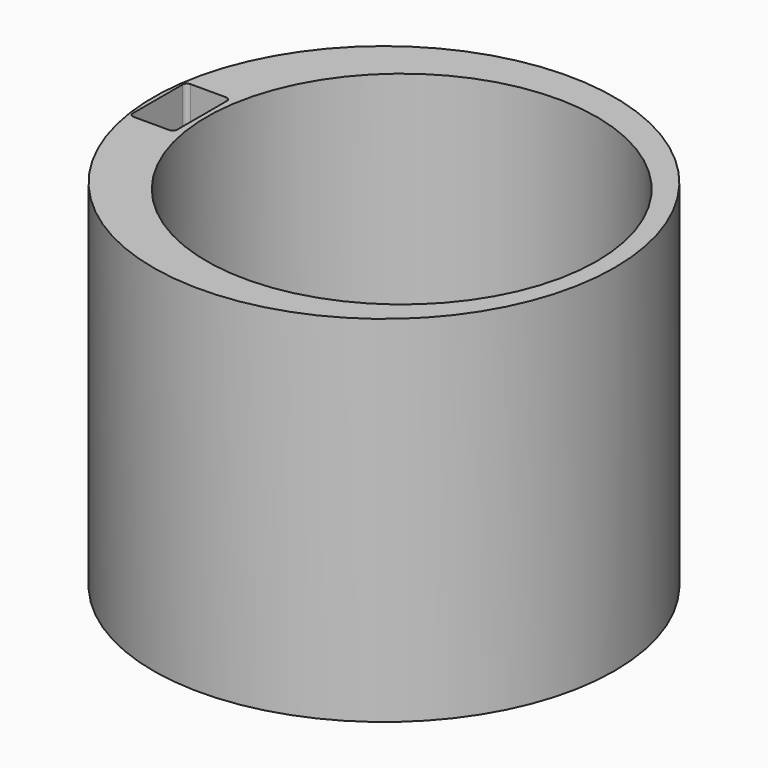
from build123d import *

# Parameters (mm, degrees)
F0_R     = 26
F0_R_2   = 22
F1_DEPTH = 40


with BuildPart() as f1:
    # F0 (on Top) → F1 (new body)
    with BuildSketch(Plane.XY):
        Circle(F0_R)
        with BuildLine():
            ThreePointArc((-20.5, -3.5), (-20.646447, -3.853553), (-21, -4))
            Line((-21, -4), (-25, -4))
            ThreePointArc((-25, -4), (-25.353553, -3.853553), (-25.5, -3.5))
            Line((-25.5, -3.5), (-25.5, 3.5))
            ThreePointArc((-25.5, 3.5), (-25.353553, 3.853553), (-25, 4))
            Line((-25, 4), (-21, 4))
            ThreePointArc((-21, 4), (-20.646447, 3.853553), (-20.5, 3.5))
            Line((-20.5, 3.5), (-20.5, -3.5))
        make_face(mode=Mode.SUBTRACT)
        with Locations((2, 0)):
            Circle(F0_R_2, mode=Mode.SUBTRACT)
    extrude(amount=F1_DEPTH)


solid = f1.part
